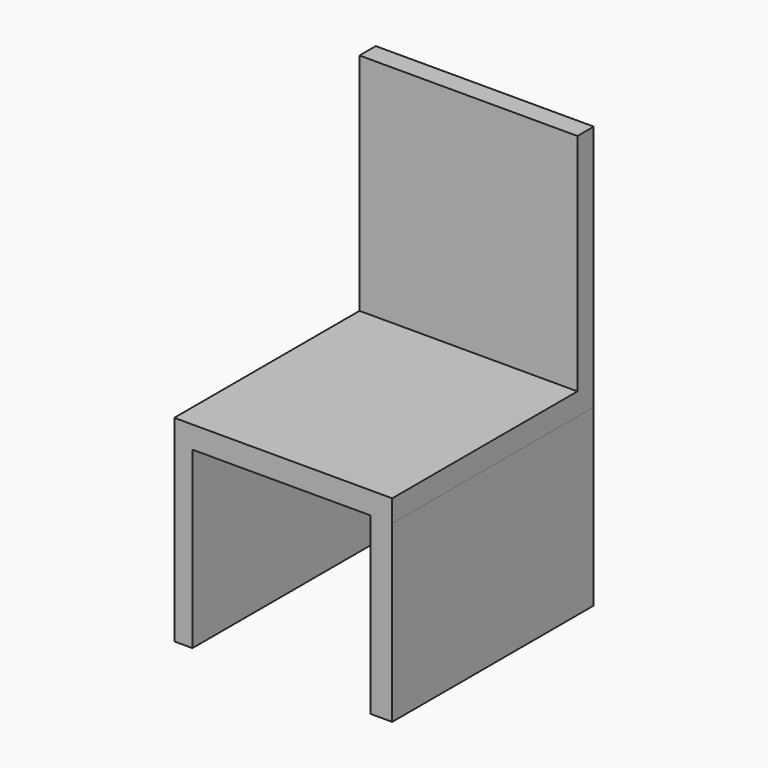
from build123d import *

# Parameters (mm, degrees)
F0_W     = 47.525011
F0_H     = 54.933967
F1_DEPTH = 4.826
F2_W     = 47.525011
F2_H     = 4.439052
F3_DEPTH = 49.022
F4_W     = 4.746631
F4_H     = 54.933967
F5_DEPTH = 38.1
F6_W     = 3.971934
F6_H     = 54.933967
F7_DEPTH = 38.1


with BuildPart() as f1:
    # F0 (on Top) → F1 (new body)
    with BuildSketch(Plane.XY):
        with Locations((-112.857285, 19.294474)):
            Rectangle(F0_W, F0_H)
    extrude(amount=F1_DEPTH)

    # F2 (on face) → F3 (join)
    with BuildSketch(Plane.XY.offset(4.826)):
        with Locations((-112.857285, 44.541931)):
            Rectangle(F2_W, F2_H)
    extrude(amount=F3_DEPTH)

    # F4 (on face) → F5 (join)
    with BuildSketch(Plane(origin=(0, 0, 0), x_dir=(1, 0, 0), z_dir=(0, 0, -1))):
        with Locations((-91.468096, -19.294474)):
            Rectangle(F4_W, F4_H)
    extrude(amount=F5_DEPTH)

    # F6 (on face) → F7 (join)
    with BuildSketch(Plane(origin=(0, 0, 0), x_dir=(1, 0, 0), z_dir=(0, 0, -1))):
        with Locations((-134.633824, -19.294474)):
            Rectangle(F6_W, F6_H)
    extrude(amount=F7_DEPTH)


solid = f1.part
